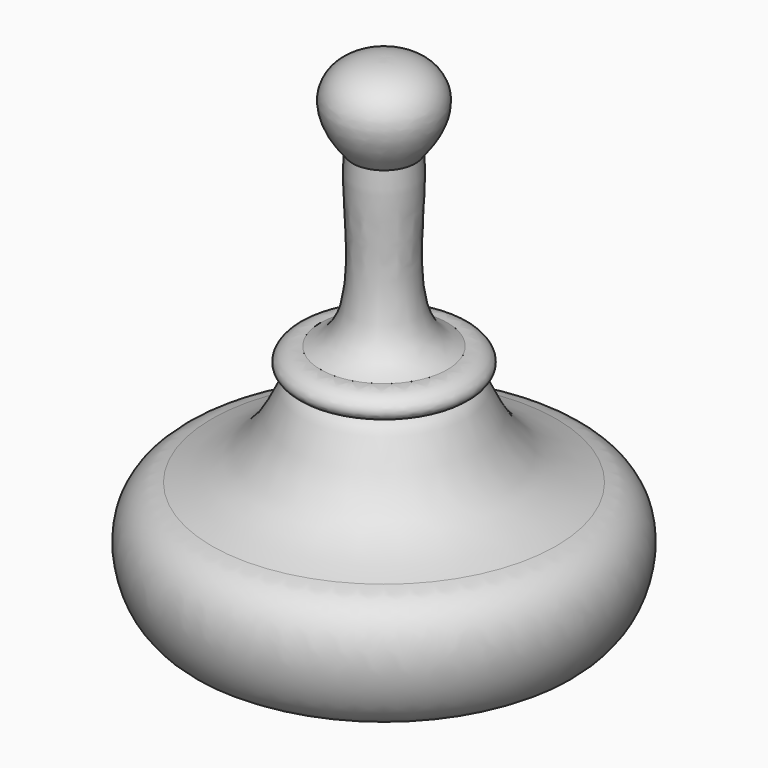
from build123d import *


with BuildPart() as f1:
    # F0 (on Front) → F1 (revolve)
    with BuildSketch(Plane.XZ):
        with BuildLine():
            Line((-26.139485, 0), (0, 0))
            Line((0, 0), (0, 74.966334))
            add(Edge.make_bspline(
                [(-4.767786, 62.384874), (-11.640698, 70.427977), (-6.126937, 75.251959), (0, 74.966334)],
                knots=[0, 0, 0, 0, 13.45455, 13.45455, 13.45455, 13.45455], degree=3))
            add(Edge.make_bspline(
                [(-9.632031, 36.426734), (-1.758456, 39.006095), (-5.506896, 53.736269), (-4.767786, 62.384874)],
                knots=[0, 0, 0, 0, 26.409958, 26.409958, 26.409958, 26.409958], degree=3))
            add(Edge.make_bspline(
                [(-10.491641, 32.526676), (-15.20299, 32.996874), (-13.176368, 36.865465), (-9.632031, 36.426734)],
                knots=[0, 0, 0, 0, 3.993668, 3.993668, 3.993668, 3.993668], degree=3))
            add(Edge.make_bspline(
                [(-26.139485, 18.218832), (-12.39166, 21.949243), (-14.792198, 31.368833), (-10.491641, 32.526676)],
                knots=[0, 0, 0, 0, 21.203051, 21.203051, 21.203051, 21.203051], degree=3))
            add(Edge.make_bspline(
                [(-26.139485, 0), (-32.507615, 1.443366), (-35.791917, 16.632771), (-26.139485, 18.218832)],
                knots=[0, 0, 0, 0, 18.218832, 18.218832, 18.218832, 18.218832], degree=3))
        make_face()
    revolve(axis=Axis((0, 0, 37.483167), (0, 0, -1)))


solid = f1.part
